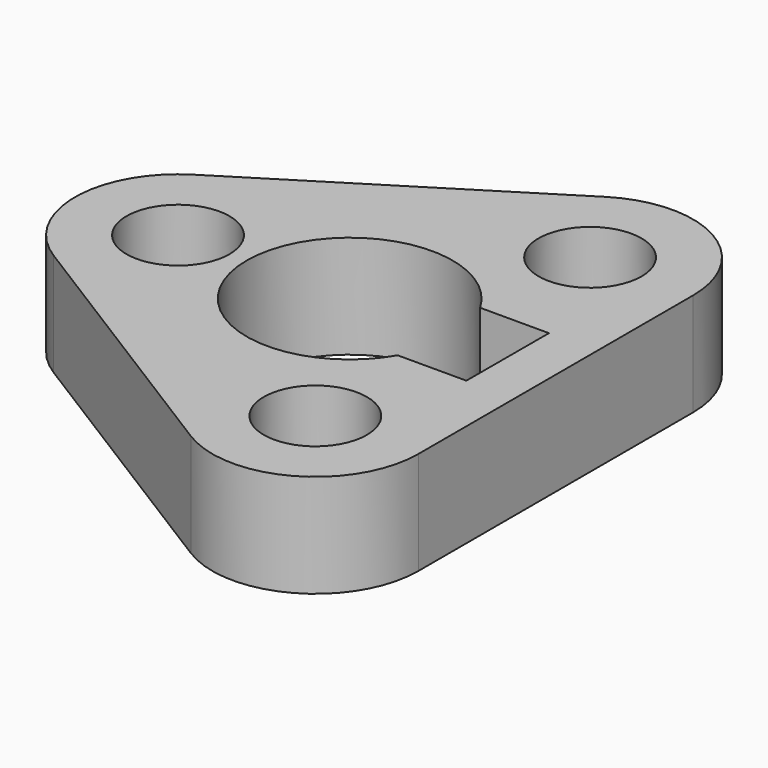
from build123d import *

# Parameters (mm, degrees)
F0_R     = 19.05
F1_DEPTH = 38.1
F3_DEPTH = 38.101


with BuildPart() as f1:
    # F0 (on Top) → F1 (new body)
    with BuildSketch(Plane.XY):
        with BuildLine():
            Line((-71.906986, 95.808735), (-173.506986, 32.308735))
            ThreePointArc((-173.506986, 32.308735), (-191.414027, 0), (-173.506986, -32.308735))
            Line((-173.506986, -32.308735), (-71.906986, -95.808735))
            ThreePointArc((-71.906986, -95.808735), (-33.244345, -96.823879), (-13.614027, -63.5))
            Line((-13.614027, -63.5), (-13.614027, 63.5))
            ThreePointArc((-13.614027, 63.5), (-33.244345, 96.823879), (-71.906986, 95.808735))
        make_face()
        with Locations((-153.314027, 0)):
            Circle(F0_R, mode=Mode.SUBTRACT)
        with Locations((-51.714027, -63.5)):
            Circle(F0_R, mode=Mode.SUBTRACT)
        with Locations((-51.714027, 63.5)):
            Circle(F0_R, mode=Mode.SUBTRACT)
    extrude(amount=F1_DEPTH)

    # F2 (on face) → F3 (cut, through all)
    with BuildSketch(Plane.XY.offset(38.1)):
        with BuildLine():
            Line((-31.369516, 19.05), (-56.818459, 19.05))
            ThreePointArc((-56.818459, 19.05), (-127.914027, -1.8e-05), (-56.818441, -19.049969))
            Line((-56.818441, -19.049969), (-31.418441, -19.049969))
            Line((-31.418441, -19.049969), (-31.369516, 19.05))
        make_face()
    extrude(amount=-F3_DEPTH, mode=Mode.SUBTRACT)


solid = f1.part
